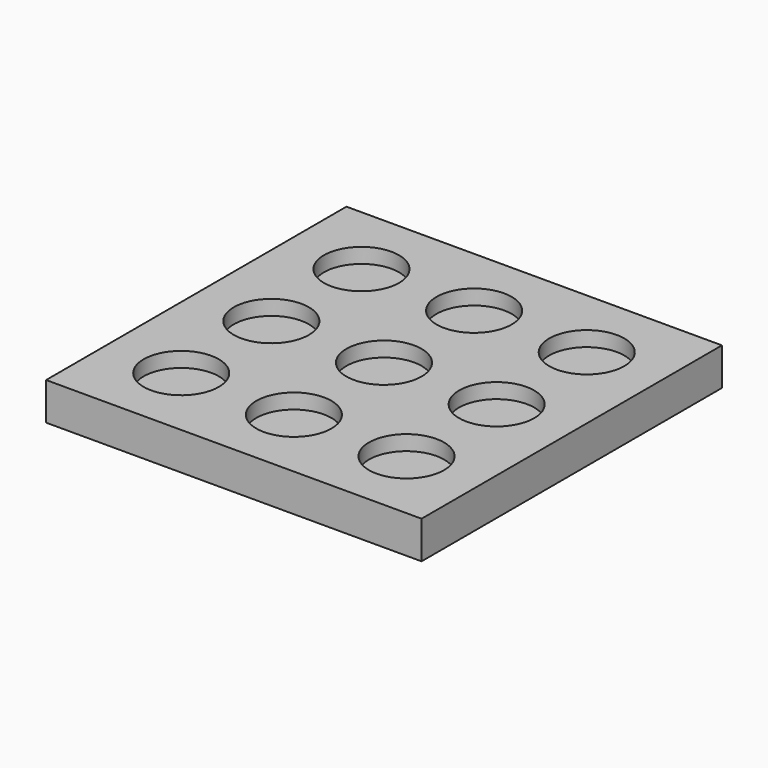
from build123d import *

# Parameters (mm, degrees)
F0_W     = 50
F0_H     = 50
F0_R     = 5
F1_DEPTH = 3
F2_DEPTH = 5


with BuildPart() as f1:
    # F0 (on Top) → F1 (new body)
    with BuildSketch(Plane.XY):
        Rectangle(F0_W, F0_H)
        with Locations((-15, -15)):
            Circle(F0_R, mode=Mode.SUBTRACT)
        with Locations((0, -15)):
            Circle(F0_R, mode=Mode.SUBTRACT)
        with Locations((15, -15)):
            Circle(F0_R, mode=Mode.SUBTRACT)
        with Locations((-15, 0)):
            Circle(F0_R, mode=Mode.SUBTRACT)
        with Locations((-15, 15)):
            Circle(F0_R, mode=Mode.SUBTRACT)
        Circle(F0_R, mode=Mode.SUBTRACT)
        with Locations((15, 0)):
            Circle(F0_R, mode=Mode.SUBTRACT)
        with Locations((0, 15)):
            Circle(F0_R, mode=Mode.SUBTRACT)
        with Locations((15, 15)):
            Circle(F0_R, mode=Mode.SUBTRACT)
        with Locations((-15, 15)):
            Circle(F0_R)
        with Locations((0, 15)):
            Circle(F0_R)
        with Locations((15, 15)):
            Circle(F0_R)
        with Locations((15, 0)):
            Circle(F0_R)
        Circle(F0_R)
        with Locations((-15, 0)):
            Circle(F0_R)
        with Locations((-15, -15)):
            Circle(F0_R)
        with Locations((0, -15)):
            Circle(F0_R)
        with Locations((15, -15)):
            Circle(F0_R)
    extrude(amount=F1_DEPTH)

    # F0 (on Top) → F2 (join)
    with BuildSketch(Plane.XY):
        Rectangle(F0_W, F0_H)
        with Locations((-15, -15)):
            Circle(F0_R, mode=Mode.SUBTRACT)
        with Locations((0, -15)):
            Circle(F0_R, mode=Mode.SUBTRACT)
        with Locations((15, -15)):
            Circle(F0_R, mode=Mode.SUBTRACT)
        with Locations((-15, 0)):
            Circle(F0_R, mode=Mode.SUBTRACT)
        with Locations((-15, 15)):
            Circle(F0_R, mode=Mode.SUBTRACT)
        Circle(F0_R, mode=Mode.SUBTRACT)
        with Locations((15, 0)):
            Circle(F0_R, mode=Mode.SUBTRACT)
        with Locations((0, 15)):
            Circle(F0_R, mode=Mode.SUBTRACT)
        with Locations((15, 15)):
            Circle(F0_R, mode=Mode.SUBTRACT)
    extrude(amount=F2_DEPTH)


solid = f1.part
